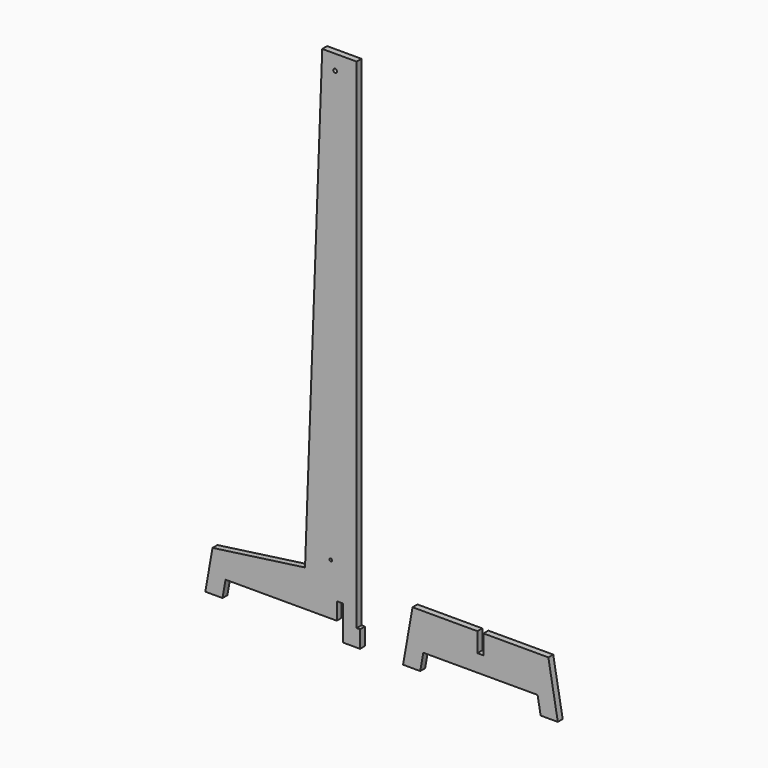
from build123d import *

# Parameters (mm, degrees)
F0_R     = 3.81
F0_R_2   = 5.588
F1_DEPTH = 18.034


with BuildPart() as f1:
    # F0 (on Front) → F1 (new body)
    with BuildSketch(Plane.XZ):
        Polygon((10.16, 0), (0, 0), (0, 1473.2), (-101.6, 1473.2), (-152.4, 107.95), (-425.708709, 70.175764), (-447.04, -50.8), (-396.24, -50.8), (-387.282589, 0), (-58.674, 0), (-58.674, 50.8), (-40.64, 50.8), (-40.64, -50.8), (10.16, -50.8), align=None)
        with Locations((-76.2, 152.4)):
            Circle(F0_R, mode=Mode.SUBTRACT)
        with Locations((-63.5, 1428.75)):
            Circle(F0_R_2, mode=Mode.SUBTRACT)
        Polygon((165.151908, 107.95), (137.16, -50.8), (187.96, -50.8), (196.917411, 0), (534.602589, 0), (543.56, -50.8), (594.36, -50.8), (566.368092, 107.95), (374.777, 107.95), (374.777, 50.8), (356.743, 50.8), (356.743, 107.95), align=None)
    extrude(amount=F1_DEPTH)


solid = f1.part
